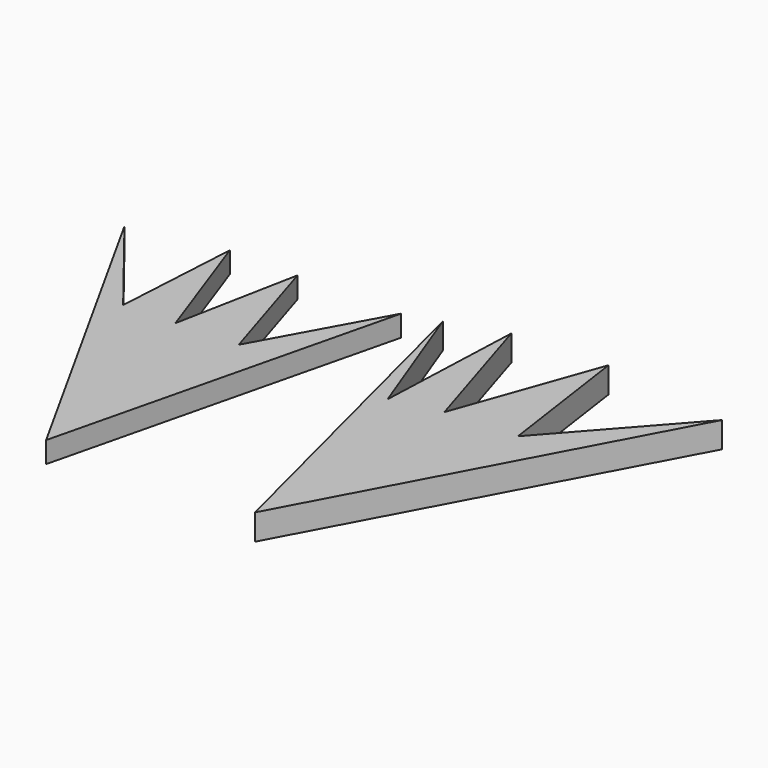
from build123d import *

# Parameters (mm, degrees)
F1_DEPTH = 1.0414
F3_DEPTH = 1.27


with BuildPart() as f1:
    # F0 (on Top) → F1 (new body)
    with BuildSketch(Plane.XY):
        Polygon((-40.376149, 1.335718), (-44.430528, 6.484929), (-35.66711, -9.289223), (-31.589761, 7.454809), (-34.84543, 1.531843), (-36.689002, 7.454809), (-37.86575, 1.414168), (-40.023122, 7.454809), align=None)
    extrude(amount=F1_DEPTH)


with BuildPart() as f3:
    # F2 (on Top) → F3 (new body)
    with BuildSketch(Plane.XY):
        Polygon((-27.271587, 1.218476), (-29.671317, 7.623847), (-25.369344, -9.315173), (-16.160434, 7.892719), (-21.437073, 1.943898), (-22.411738, 8.732949), (-24.898816, 1.742243), (-26.982585, 8.464076), align=None)
    extrude(amount=F3_DEPTH)


solid = Compound([f1.part, f3.part])
